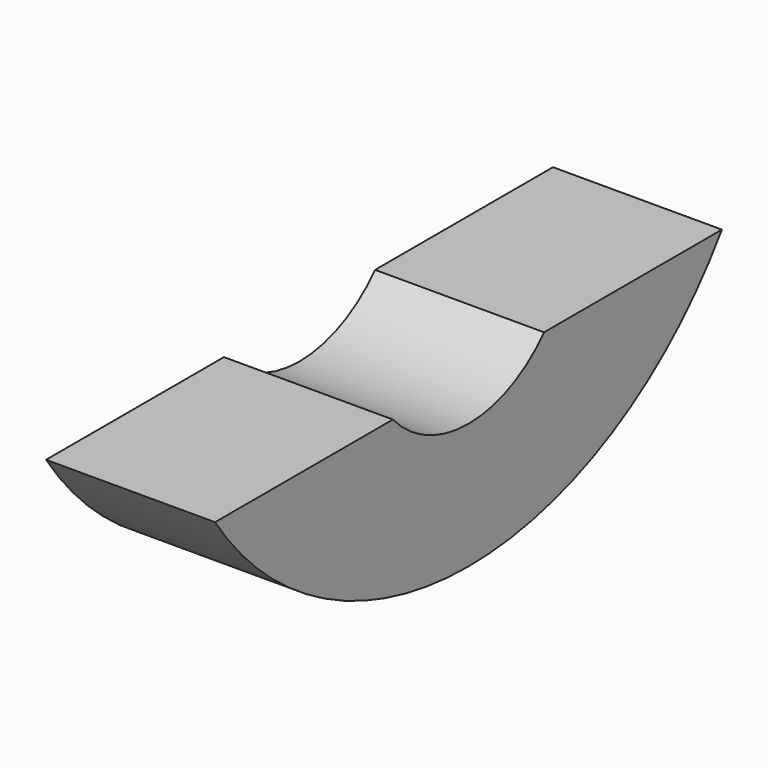
from build123d import *

# Parameters (mm, degrees)
PAD_DEPTH = 4


with BuildPart() as part:
    # Sketch001 → Pad (new body)
    with BuildSketch(Plane.YZ):
        with BuildLine():
            ThreePointArc((-2.236068, -2), (0, -3), (2.236068, -2))
            Line((2.236068, -2), (7.499285, -2))
            ThreePointArc((-7.499285, -2), (0, -5.9717), (7.499285, -2))
            Line((-2.236068, -2), (-7.499285, -2))
        make_face()
    extrude(amount=PAD_DEPTH)


solid = part.part
